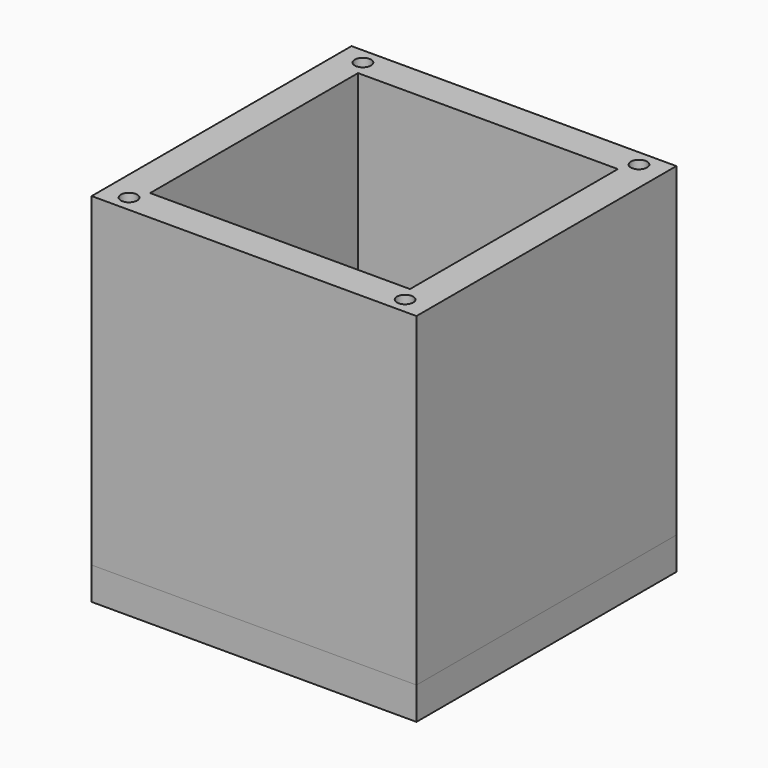
from build123d import *

# Parameters (mm, degrees)
F0_W     = 100
F0_H     = 99.9999981374
F1_DEPTH = 100
F2_W     = 80
F2_H     = 80
F3_DEPTH = 100.0009981374
F4_R     = 2.5
F5_DEPTH = 100.0009981374
F6_W     = 100
F6_H     = 100
F6_R     = 2.5
F7_DEPTH = 10


with BuildPart() as f1:
    # F0 (on Front) → F1 (new body)
    with BuildSketch(Plane.XZ):
        with Locations((-25.8371420205, 20.7754494622)):
            Rectangle(F0_W, F0_H)
    extrude(amount=F1_DEPTH)

    # F2 (on face) → F3 (cut, through all)
    with BuildSketch(Plane(origin=(0, 0, -29.2245496065), x_dir=(1, 0, 0), z_dir=(0, 0, -1))):
        with Locations((-25.8371420205, 50)):
            Rectangle(F2_W, F2_H)
    extrude(amount=-F3_DEPTH, mode=Mode.SUBTRACT)

    # F4 (on face) → F5 (cut, through all)
    with BuildSketch(Plane.XY.offset(70.7754485309)):
        with Locations((-68.3371420205, -95)):
            Circle(F4_R)
        with Locations((-68.3371420205, -5)):
            Circle(F4_R)
        with Locations((16.6628579795, -5)):
            Circle(F4_R)
        with Locations((16.6628579795, -95)):
            Circle(F4_R)
    extrude(amount=-F5_DEPTH, mode=Mode.SUBTRACT)


with BuildPart() as f7:
    # F6 (on face) → F7 (new body)
    with BuildSketch(Plane(origin=(0, 0, -29.2245496065), x_dir=(1, 0, 0), z_dir=(0, 0, -1))):
        with Locations((-25.8371420205, 50)):
            Rectangle(F6_W, F6_H)
        with Locations((-68.3371420205, 5)):
            Circle(F6_R, mode=Mode.SUBTRACT)
        with Locations((16.6628579795, 5)):
            Circle(F6_R, mode=Mode.SUBTRACT)
        with Locations((-68.3371420205, 95)):
            Circle(F6_R, mode=Mode.SUBTRACT)
        with Locations((16.6628579795, 95)):
            Circle(F6_R, mode=Mode.SUBTRACT)
    extrude(amount=F7_DEPTH)


solid = Compound([f1.part, f7.part])
